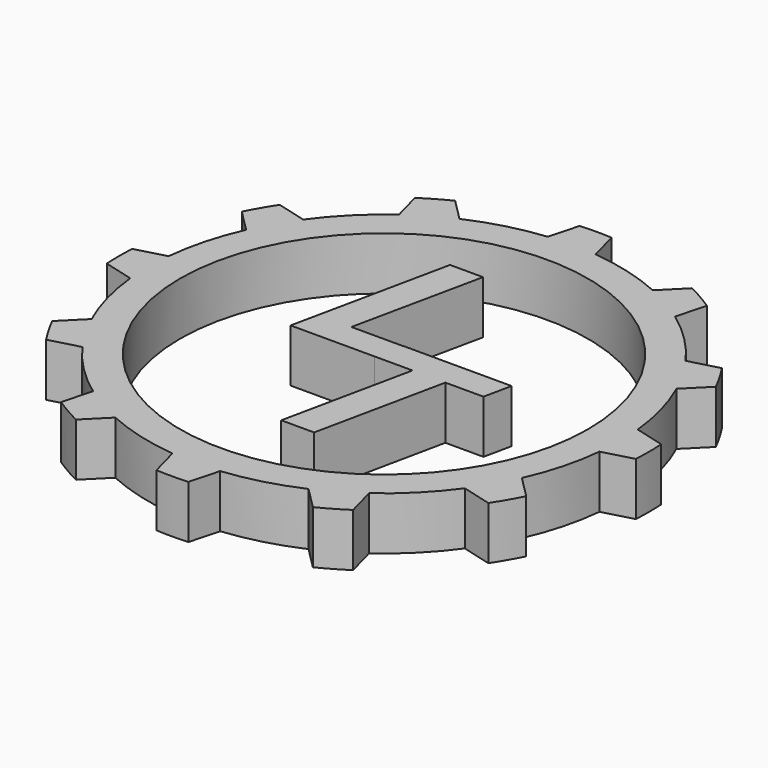
from build123d import *

# Parameters (mm, degrees)
F0_R     = 97.79
F1_DEPTH = 25.4
F3_DEPTH = 25.4


with BuildPart() as f1:
    # F0 (on Top) → F1 (new body)
    with BuildSketch(Plane.XY):
        with BuildLine():
            Line((11.4579556123, 112.4477485465), (7.62, 126.7711938888))
            ThreePointArc((7.62, 126.7711938888), (0, 127), (-7.62, 126.7711938888))
            Line((-7.62, 126.7711938888), (-11.4579556123, 112.4477485465))
            ThreePointArc((-11.4579556123, 112.4477485465), (-29.2543166679, 109.1785961455), (-46.3009936376, 103.1115846458))
            ThreePointArc((-46.3009936376, 103.1115846458), (-56.515, 97.8868513898), (-66.146754909, 91.6536290335))
            ThreePointArc((-66.146754909, 91.6536290335), (-79.9242794775, 79.9242794775), (-91.6536290335, 66.146754909))
            ThreePointArc((-91.6536290335, 66.146754909), (-97.8868513898, 56.515), (-103.1115846458, 46.3009936376))
            ThreePointArc((-103.1115846458, 46.3009936376), (-109.1785961455, 29.2543166679), (-112.4477485465, 11.4579556123))
            ThreePointArc((-112.4477485465, 11.4579556123), (-113.03, 0), (-112.4477485465, -11.4579556123))
            ThreePointArc((-112.4477485465, -11.4579556123), (-109.1785961455, -29.2543166679), (-103.1115846458, -46.3009936376))
            ThreePointArc((-103.1115846458, -46.3009936376), (-97.8868513898, -56.515), (-91.6536290335, -66.146754909))
            ThreePointArc((-91.6536290335, -66.146754909), (-79.9242794775, -79.9242794775), (-66.146754909, -91.6536290335))
            ThreePointArc((-66.146754909, -91.6536290335), (-56.515, -97.8868513898), (-46.3009936376, -103.1115846458))
            ThreePointArc((-46.3009936376, -103.1115846458), (-29.2543166679, -109.1785961455), (-11.4579556123, -112.4477485465))
            ThreePointArc((-11.4579556123, -112.4477485465), (0, -113.03), (11.4579556123, -112.4477485465))
            ThreePointArc((11.4579556123, -112.4477485465), (29.2543166679, -109.1785961455), (46.3009936376, -103.1115846458))
            ThreePointArc((46.3009936376, -103.1115846458), (56.515, -97.8868513898), (66.146754909, -91.6536290335))
            ThreePointArc((66.146754909, -91.6536290335), (79.9242794775, -79.9242794775), (91.6536290335, -66.146754909))
            ThreePointArc((91.6536290335, -66.146754909), (97.8868513898, -56.515), (103.1115846458, -46.3009936376))
            ThreePointArc((103.1115846458, -46.3009936376), (109.1785961455, -29.2543166679), (112.4477485465, -11.4579556123))
            ThreePointArc((112.4477485465, -11.4579556123), (113.03, 0), (112.4477485465, 11.4579556123))
            ThreePointArc((112.4477485465, 11.4579556123), (109.1785961455, 29.2543166679), (103.1115846458, 46.3009936376))
            ThreePointArc((103.1115846458, 46.3009936376), (97.8868513898, 56.515), (91.6536290335, 66.146754909))
            ThreePointArc((91.6536290335, 66.146754909), (79.9242794775, 79.9242794775), (66.146754909, 91.6536290335))
            ThreePointArc((66.146754909, 91.6536290335), (56.515, 97.8868513898), (46.3009936376, 103.1115846458))
            ThreePointArc((46.3009936376, 103.1115846458), (29.2543166679, 109.1785961455), (11.4579556123, 112.4477485465))
        make_face()
        Circle(F0_R, mode=Mode.SUBTRACT)
        with BuildLine():
            Line((56.7864833676, 113.5970743758), (46.3009936376, 103.1115846458))
            ThreePointArc((46.3009936376, 103.1115846458), (56.515, 97.8868513898), (66.146754909, 91.6536290335))
            Line((66.146754909, 91.6536290335), (69.9847105213, 105.9770743758))
            ThreePointArc((69.9847105213, 105.9770743758), (63.5, 109.9852262806), (56.7864833676, 113.5970743758))
        make_face()
        with BuildLine():
            ThreePointArc((-66.146754909, 91.6536290335), (-56.515, 97.8868513898), (-46.3009936376, 103.1115846458))
            Line((-46.3009936376, 103.1115846458), (-56.7864833676, 113.5970743758))
            ThreePointArc((-56.7864833676, 113.5970743758), (-63.5, 109.9852262806), (-69.9847105213, 105.9770743758))
            Line((-69.9847105213, 105.9770743758), (-66.146754909, 91.6536290335))
        make_face()
        with BuildLine():
            Line((105.9770743758, 69.9847105213), (91.6536290335, 66.146754909))
            ThreePointArc((91.6536290335, 66.146754909), (97.8868513898, 56.515), (103.1115846458, 46.3009936376))
            Line((103.1115846458, 46.3009936376), (113.5970743758, 56.7864833676))
            ThreePointArc((113.5970743758, 56.7864833676), (109.9852262806, 63.5), (105.9770743758, 69.9847105213))
        make_face()
        with BuildLine():
            ThreePointArc((-103.1115846458, 46.3009936376), (-97.8868513898, 56.515), (-91.6536290335, 66.146754909))
            Line((-91.6536290335, 66.146754909), (-105.9770743758, 69.9847105213))
            ThreePointArc((-105.9770743758, 69.9847105213), (-109.9852262806, 63.5), (-113.5970743758, 56.7864833676))
            Line((-113.5970743758, 56.7864833676), (-103.1115846458, 46.3009936376))
        make_face()
        with BuildLine():
            Line((126.7711938888, 7.62), (112.4477485465, 11.4579556123))
            ThreePointArc((112.4477485465, 11.4579556123), (113.03, 0), (112.4477485465, -11.4579556123))
            Line((112.4477485465, -11.4579556123), (126.7711938888, -7.62))
            ThreePointArc((126.7711938888, -7.62), (127, 0), (126.7711938888, 7.62))
        make_face()
        with BuildLine():
            ThreePointArc((-112.4477485465, -11.4579556123), (-113.03, 0), (-112.4477485465, 11.4579556123))
            Line((-112.4477485465, 11.4579556123), (-126.7711938888, 7.62))
            ThreePointArc((-126.7711938888, 7.62), (-127, 0), (-126.7711938888, -7.62))
            Line((-126.7711938888, -7.62), (-112.4477485465, -11.4579556123))
        make_face()
        with BuildLine():
            Line((113.5970743758, -56.7864833676), (103.1115846458, -46.3009936376))
            ThreePointArc((103.1115846458, -46.3009936376), (97.8868513898, -56.515), (91.6536290335, -66.146754909))
            Line((91.6536290335, -66.146754909), (105.9770743758, -69.9847105213))
            ThreePointArc((105.9770743758, -69.9847105213), (109.9852262806, -63.5), (113.5970743758, -56.7864833676))
        make_face()
        with BuildLine():
            ThreePointArc((-91.6536290335, -66.146754909), (-97.8868513898, -56.515), (-103.1115846458, -46.3009936376))
            Line((-103.1115846458, -46.3009936376), (-113.5970743758, -56.7864833676))
            ThreePointArc((-113.5970743758, -56.7864833676), (-109.9852262806, -63.5), (-105.9770743758, -69.9847105213))
            Line((-105.9770743758, -69.9847105213), (-91.6536290335, -66.146754909))
        make_face()
        with BuildLine():
            Line((69.9847105213, -105.9770743758), (66.146754909, -91.6536290335))
            ThreePointArc((66.146754909, -91.6536290335), (56.515, -97.8868513898), (46.3009936376, -103.1115846458))
            Line((46.3009936376, -103.1115846458), (56.7864833676, -113.5970743758))
            ThreePointArc((56.7864833676, -113.5970743758), (63.5, -109.9852262806), (69.9847105213, -105.9770743758))
        make_face()
        with BuildLine():
            ThreePointArc((-46.3009936376, -103.1115846458), (-56.515, -97.8868513898), (-66.146754909, -91.6536290335))
            Line((-66.146754909, -91.6536290335), (-69.9847105213, -105.9770743758))
            ThreePointArc((-69.9847105213, -105.9770743758), (-63.5, -109.9852262806), (-56.7864833676, -113.5970743758))
            Line((-56.7864833676, -113.5970743758), (-46.3009936376, -103.1115846458))
        make_face()
        with BuildLine():
            Line((7.62, -126.7711938888), (11.4579556123, -112.4477485465))
            ThreePointArc((11.4579556123, -112.4477485465), (0, -113.03), (-11.4579556123, -112.4477485465))
            Line((-11.4579556123, -112.4477485465), (-7.62, -126.7711938888))
            ThreePointArc((-7.62, -126.7711938888), (0, -127), (7.62, -126.7711938888))
        make_face()
    extrude(amount=F1_DEPTH)


with BuildPart() as f3:
    # F2 (on Top) → F3 (new body)
    with BuildSketch(Plane.XY):
        Polygon((-25.7571875, 71.745078125), (-41.7148697917, -3.81), (-1.4776536006, -3.81), (1.3454440007, 9.4191666667), (-23.1609635417, 9.4191666667), (-9.931796875, 71.745078125), align=None)
        Polygon((1.3454440007, 9.4191666667), (-1.4776536006, -3.81), (0.5027083333, -3.81), (3.2973697917, 9.4191666667), align=None)
        Polygon((0.5027083333, -3.81), (-1.4776536006, -3.81), (-1.478359375, -3.8133072917), (16.7117447917, -3.8133072917), (3.581796875, -66.04), (19.3410416667, -66.04), (32.4709895833, -3.8133072917), (50.710703125, -3.8133072917), (53.5549739583, 9.515078125), (1.3659114583, 9.515078125), (1.3454440007, 9.4191666667), (3.2973697917, 9.4191666667), align=None)
    extrude(amount=F3_DEPTH)


solid = Compound([f1.part, f3.part])
